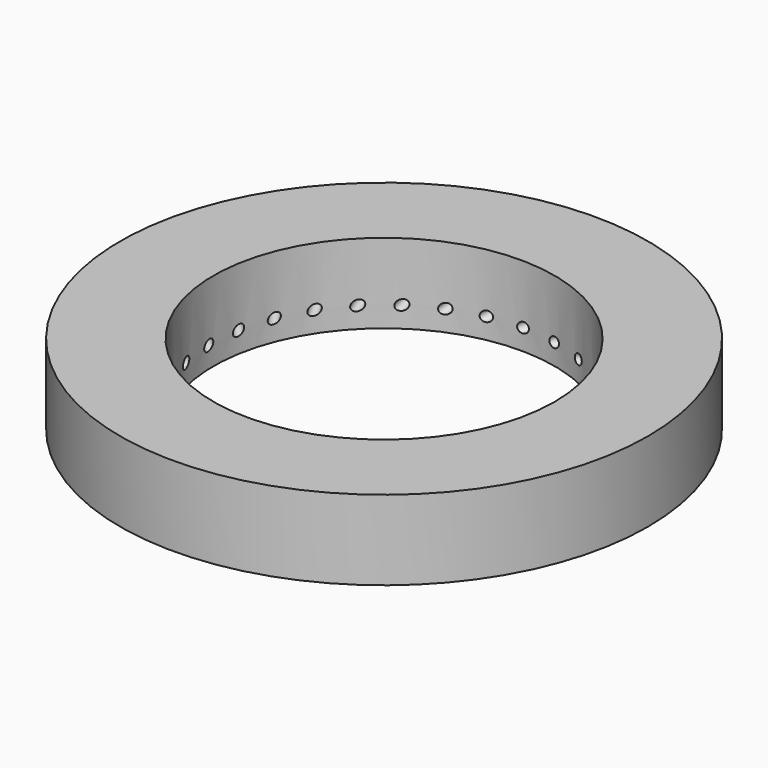
from build123d import *

# Parameters (mm, degrees)
F0_R      = 26.289
F1_DEPTH  = 7.9375
F2_R      = 17
F3_DEPTH  = 7.9375
F6_R      = 0.5
F7_DEPTH  = 28.575
F8_ANGLE  = 20
F10_ANGLE = 50
F11_ANGLE = 55
F12_COUNT = 31
F17_R     = 22.098
F17_R_2   = 21.082
F18_DEPTH = 4.2545


with BuildPart() as f1:
    # F0 (on Top) → F1 (new body)
    with BuildSketch(Plane.XY):
        Circle(F0_R)
    extrude(amount=F1_DEPTH)

    # F2 (on Top) → F3 (cut)
    with BuildSketch(Plane.XY):
        Circle(F2_R)
    extrude(amount=F3_DEPTH, mode=Mode.SUBTRACT)


with BuildPart() as f7:
    # F6 (on Right) → F7 (new body)
    with BuildSketch(Plane.YZ):
        with Locations((0, 54.099839)):
            Circle(F6_R)
    extrude(amount=F7_DEPTH)


with BuildPart() as f7_1:
    # F8: moved
    add(f7.part.rotate(Axis((0, 0, 71.663387), (0, 0, 1)), F8_ANGLE))


with BuildPart() as f7_2:
    # F9: moved
    add(f7_1.part.moved(Location((0, 0, -59.182))))


with BuildPart() as f7_3:
    # F10: moved
    add(f7_2.part.rotate(Axis((14.928388, 0, 0), (1, 0, 0)), F10_ANGLE))


with BuildPart() as f7_4:
    # F11: moved
    add(f7_3.part.rotate(Axis((0, -8.906875, 35.487175), (0, 0, 1)), F11_ANGLE))


with BuildPart() as f12_1:
    # F12: instance of F7
    add(f7_4.part.rotate(Axis((0, 0, 71.663387), (0, 0, 1)), 1 * 360 / F12_COUNT))


with BuildPart() as f12_2:
    # F12: instance of F7
    add(f7_4.part.rotate(Axis((0, 0, 71.663387), (0, 0, 1)), 2 * 360 / F12_COUNT))


with BuildPart() as f12_3:
    # F12: instance of F7
    add(f7_4.part.rotate(Axis((0, 0, 71.663387), (0, 0, 1)), 3 * 360 / F12_COUNT))


with BuildPart() as f12_4:
    # F12: instance of F7
    add(f7_4.part.rotate(Axis((0, 0, 71.663387), (0, 0, 1)), 4 * 360 / F12_COUNT))


with BuildPart() as f12_5:
    # F12: instance of F7
    add(f7_4.part.rotate(Axis((0, 0, 71.663387), (0, 0, 1)), 5 * 360 / F12_COUNT))


with BuildPart() as f12_6:
    # F12: instance of F7
    add(f7_4.part.rotate(Axis((0, 0, 71.663387), (0, 0, 1)), 6 * 360 / F12_COUNT))


with BuildPart() as f12_7:
    # F12: instance of F7
    add(f7_4.part.rotate(Axis((0, 0, 71.663387), (0, 0, 1)), 7 * 360 / F12_COUNT))


with BuildPart() as f12_8:
    # F12: instance of F7
    add(f7_4.part.rotate(Axis((0, 0, 71.663387), (0, 0, 1)), 8 * 360 / F12_COUNT))


with BuildPart() as f12_9:
    # F12: instance of F7
    add(f7_4.part.rotate(Axis((0, 0, 71.663387), (0, 0, 1)), 9 * 360 / F12_COUNT))


with BuildPart() as f12_10:
    # F12: instance of F7
    add(f7_4.part.rotate(Axis((0, 0, 71.663387), (0, 0, 1)), 10 * 360 / F12_COUNT))


with BuildPart() as f12_11:
    # F12: instance of F7
    add(f7_4.part.rotate(Axis((0, 0, 71.663387), (0, 0, 1)), 11 * 360 / F12_COUNT))


with BuildPart() as f12_12:
    # F12: instance of F7
    add(f7_4.part.rotate(Axis((0, 0, 71.663387), (0, 0, 1)), 12 * 360 / F12_COUNT))


with BuildPart() as f12_13:
    # F12: instance of F7
    add(f7_4.part.rotate(Axis((0, 0, 71.663387), (0, 0, 1)), 13 * 360 / F12_COUNT))


with BuildPart() as f12_14:
    # F12: instance of F7
    add(f7_4.part.rotate(Axis((0, 0, 71.663387), (0, 0, 1)), 14 * 360 / F12_COUNT))


with BuildPart() as f12_15:
    # F12: instance of F7
    add(f7_4.part.rotate(Axis((0, 0, 71.663387), (0, 0, 1)), 15 * 360 / F12_COUNT))


with BuildPart() as f12_16:
    # F12: instance of F7
    add(f7_4.part.rotate(Axis((0, 0, 71.663387), (0, 0, 1)), 16 * 360 / F12_COUNT))


with BuildPart() as f12_17:
    # F12: instance of F7
    add(f7_4.part.rotate(Axis((0, 0, 71.663387), (0, 0, 1)), 17 * 360 / F12_COUNT))


with BuildPart() as f12_18:
    # F12: instance of F7
    add(f7_4.part.rotate(Axis((0, 0, 71.663387), (0, 0, 1)), 18 * 360 / F12_COUNT))


with BuildPart() as f12_19:
    # F12: instance of F7
    add(f7_4.part.rotate(Axis((0, 0, 71.663387), (0, 0, 1)), 19 * 360 / F12_COUNT))


with BuildPart() as f12_20:
    # F12: instance of F7
    add(f7_4.part.rotate(Axis((0, 0, 71.663387), (0, 0, 1)), 20 * 360 / F12_COUNT))


with BuildPart() as f12_21:
    # F12: instance of F7
    add(f7_4.part.rotate(Axis((0, 0, 71.663387), (0, 0, 1)), 21 * 360 / F12_COUNT))


with BuildPart() as f12_22:
    # F12: instance of F7
    add(f7_4.part.rotate(Axis((0, 0, 71.663387), (0, 0, 1)), 22 * 360 / F12_COUNT))


with BuildPart() as f12_23:
    # F12: instance of F7
    add(f7_4.part.rotate(Axis((0, 0, 71.663387), (0, 0, 1)), 23 * 360 / F12_COUNT))


with BuildPart() as f12_24:
    # F12: instance of F7
    add(f7_4.part.rotate(Axis((0, 0, 71.663387), (0, 0, 1)), 24 * 360 / F12_COUNT))


with BuildPart() as f12_25:
    # F12: instance of F7
    add(f7_4.part.rotate(Axis((0, 0, 71.663387), (0, 0, 1)), 25 * 360 / F12_COUNT))


with BuildPart() as f12_26:
    # F12: instance of F7
    add(f7_4.part.rotate(Axis((0, 0, 71.663387), (0, 0, 1)), 26 * 360 / F12_COUNT))


with BuildPart() as f12_27:
    # F12: instance of F7
    add(f7_4.part.rotate(Axis((0, 0, 71.663387), (0, 0, 1)), 27 * 360 / F12_COUNT))


with BuildPart() as f12_28:
    # F12: instance of F7
    add(f7_4.part.rotate(Axis((0, 0, 71.663387), (0, 0, 1)), 28 * 360 / F12_COUNT))


with BuildPart() as f12_29:
    # F12: instance of F7
    add(f7_4.part.rotate(Axis((0, 0, 71.663387), (0, 0, 1)), 29 * 360 / F12_COUNT))


with BuildPart() as f12_30:
    # F12: instance of F7
    add(f7_4.part.rotate(Axis((0, 0, 71.663387), (0, 0, 1)), 30 * 360 / F12_COUNT))


with BuildPart() as f1_1:
    add(f1.part)

    # F13: cut F7, F12_14
    add(f7_4.part, mode=Mode.SUBTRACT)
    add(f12_14.part, mode=Mode.SUBTRACT)

    # F14: cut F12_30, F12_28, F12_26, F12_24, F12_22
    add(f12_30.part, mode=Mode.SUBTRACT)
    add(f12_28.part, mode=Mode.SUBTRACT)
    add(f12_26.part, mode=Mode.SUBTRACT)
    add(f12_24.part, mode=Mode.SUBTRACT)
    add(f12_22.part, mode=Mode.SUBTRACT)

    # F15: cut F12_20, F12_18, F12_16, F12_13, F12_11, F12_9, F12_7, F12_5, F12_3, F12_1
    add(f12_20.part, mode=Mode.SUBTRACT)
    add(f12_18.part, mode=Mode.SUBTRACT)
    add(f12_16.part, mode=Mode.SUBTRACT)
    add(f12_13.part, mode=Mode.SUBTRACT)
    add(f12_11.part, mode=Mode.SUBTRACT)
    add(f12_9.part, mode=Mode.SUBTRACT)
    add(f12_7.part, mode=Mode.SUBTRACT)
    add(f12_5.part, mode=Mode.SUBTRACT)
    add(f12_3.part, mode=Mode.SUBTRACT)
    add(f12_1.part, mode=Mode.SUBTRACT)

    # F16: cut F12_29, F12_27, F12_25, F12_23, F12_21, F12_19, F12_17, F12_15, F12_12, F12_10, F12_8, F12_6, F12_4, F12_2
    add(f12_29.part, mode=Mode.SUBTRACT)
    add(f12_27.part, mode=Mode.SUBTRACT)
    add(f12_25.part, mode=Mode.SUBTRACT)
    add(f12_23.part, mode=Mode.SUBTRACT)
    add(f12_21.part, mode=Mode.SUBTRACT)
    add(f12_19.part, mode=Mode.SUBTRACT)
    add(f12_17.part, mode=Mode.SUBTRACT)
    add(f12_15.part, mode=Mode.SUBTRACT)
    add(f12_12.part, mode=Mode.SUBTRACT)
    add(f12_10.part, mode=Mode.SUBTRACT)
    add(f12_8.part, mode=Mode.SUBTRACT)
    add(f12_6.part, mode=Mode.SUBTRACT)
    add(f12_4.part, mode=Mode.SUBTRACT)
    add(f12_2.part, mode=Mode.SUBTRACT)

    # F17 (on face) → F18 (cut)
    with BuildSketch(Plane(origin=(0, 0, 0), x_dir=(1, 0, 0), z_dir=(0, 0, -1))):
        Circle(F17_R)
        Circle(F17_R_2, mode=Mode.SUBTRACT)
    extrude(amount=-F18_DEPTH, mode=Mode.SUBTRACT)


solid = f1_1.part
